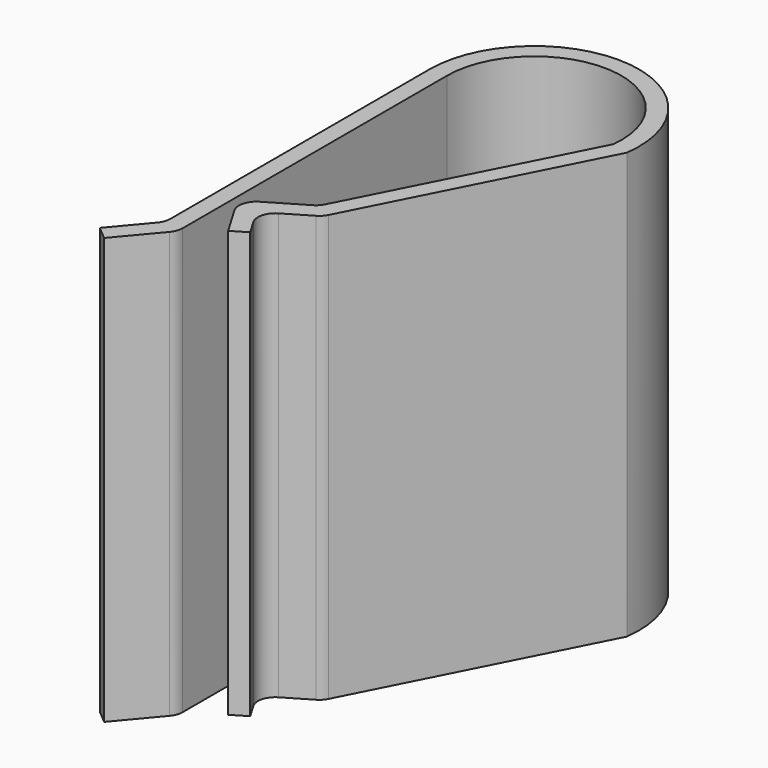
from build123d import *

# Parameters (mm, degrees)
F1_DEPTH = 49


with BuildPart() as f1:
    # F0 (on Top) → F1 (new body)
    with BuildSketch(Plane.XY):
        with BuildLine():
            ThreePointArc((-0.467911, -1.285575), (-0.120615, -0.68404), (0, 0))
            Line((0, 0), (0, 38))
            ThreePointArc((0, 38), (10.558908, 48.014039), (20, 36.939866))
            Line((20, 36.939866), (7.097844, 11.617959))
            ThreePointArc((7.097844, 11.617959), (6.77408, 11.157178), (6.334698, 10.804921))
            Line((6.334698, 10.804921), (2.170793, 8.339831))
            ThreePointArc((2.170793, 8.339831), (1.252268, 7.115308), (1.468641, 5.599944))
            Line((1.468641, 5.599944), (3.506376, 2.157904))
            Line((3.506376, 2.157904), (5.227396, 3.176772))
            Line((5.227396, 3.176772), (4.208528, 4.897792))
            ThreePointArc((4.208528, 4.897792), (3.992155, 6.413156), (4.910681, 7.637679))
            Line((4.910681, 7.637679), (7.853143, 9.379657))
            ThreePointArc((7.853143, 9.379657), (8.292525, 9.731915), (8.616289, 10.192696))
            Line((8.616289, 10.192696), (21.972435, 36.40561))
            ThreePointArc((21.972435, 36.40561), (10.838195, 50.012699), (-2, 38))
            Line((-2, 38), (-2, 0.72794))
            ThreePointArc((-2, 0.72794), (-2.120615, 0.0439), (-2.467911, -0.557635))
            Line((-2.467911, -0.557635), (-5.856726, -4.596267))
            Line((-5.856726, -4.596267), (-4.324637, -5.881842))
            Line((-4.324637, -5.881842), (-0.467911, -1.285575))
        make_face()
    extrude(amount=F1_DEPTH)


solid = f1.part
